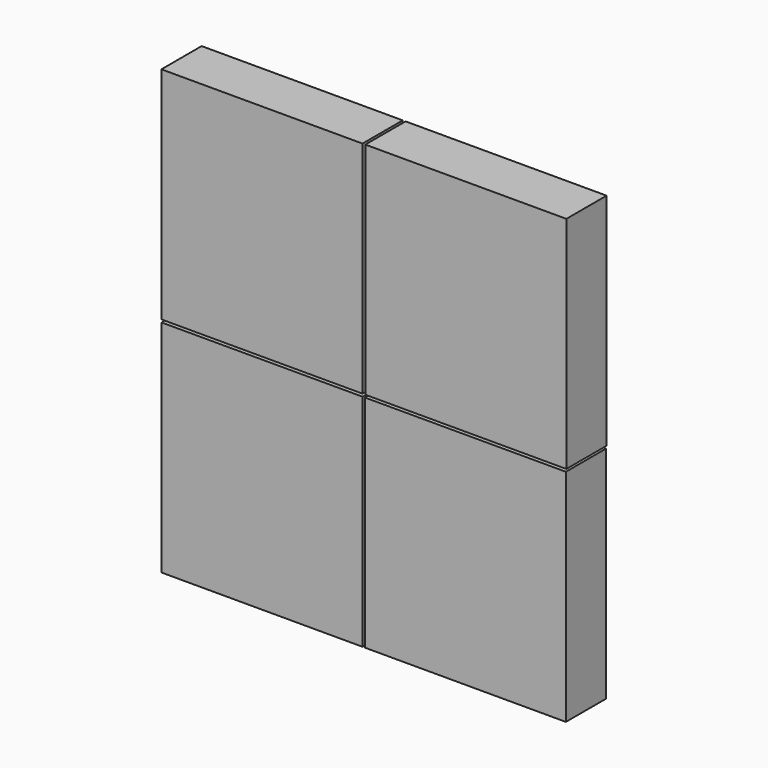
from build123d import *

# Parameters (mm, degrees)
F0_W     = 50.788235
F0_H     = 55.626
F0_W_2   = 50.8
F0_H_2   = 55.61823
F1_DEPTH = 12.7


with BuildPart() as f1:
    # F0 (on Front) → F1 (new body)
    with BuildSketch(Plane.XZ):
        with Locations((-16.960287, 7.117817)):
            Rectangle(F0_W, F0_H)
        with Locations((-68.463098, 7.113932)):
            Rectangle(F0_W_2, F0_H_2)
        with Locations((-17.079783, -49.173972)):
            Rectangle(F0_W, F0_H)
        with Locations((-68.418859, -49.177857)):
            Rectangle(F0_W_2, F0_H_2)
    extrude(amount=F1_DEPTH)


solid = f1.part
